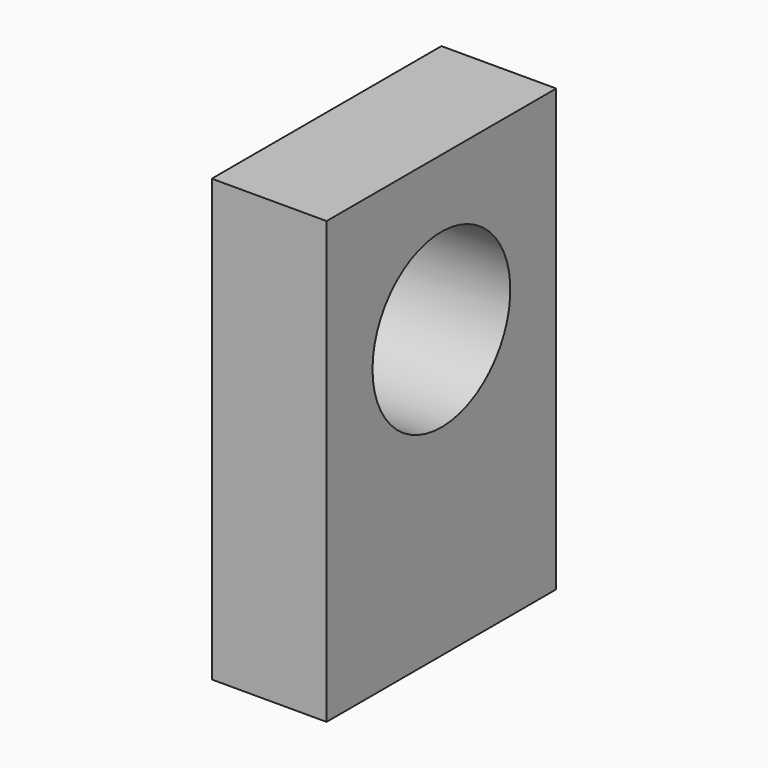
from build123d import *

# Parameters (mm, degrees)
F1_DEPTH = 20
F3_D     = 5
F3_DEPTH = 10
F3_TIP   = 1.5021515476


with BuildPart() as f1:
    # F0 (on Right) → F1 (new body)
    with BuildSketch(Plane.YZ):
        with BuildLine():
            Line((13.9282383025, 62.660025619), (13.9282383025, 12.660025619))
            Line((13.9282383025, 12.660025619), (63.9282383025, 12.660025619))
            Line((63.9282383025, 12.660025619), (63.9282383025, 62.660025619))
            Line((63.9282383025, 62.660025619), (53.9282383025, 62.660025619))
            ThreePointArc((53.9282383025, 62.660025619), (38.9282383025, 47.660025619), (23.9282383025, 62.660025619))
            Line((23.9282383025, 62.660025619), (13.9282383025, 62.660025619))
        make_face()
        with BuildLine():
            Line((13.9282383025, 89.4562825561), (13.9282383025, 62.660025619))
            Line((13.9282383025, 62.660025619), (23.9282383025, 62.660025619))
            ThreePointArc((23.9282383025, 62.660025619), (38.9282383025, 77.660025619), (53.9282383025, 62.660025619))
            Line((53.9282383025, 62.660025619), (63.9282383025, 62.660025619))
            Line((63.9282383025, 62.660025619), (63.9282383025, 89.4562825561))
            Line((63.9282383025, 89.4562825561), (13.9282383025, 89.4562825561))
        make_face()
    extrude(amount=F1_DEPTH)

    # F3
    with Locations(Plane(origin=(0, 0, 12.660025619), x_dir=(1, 0, 0), z_dir=(0, 0, -1))):
        with Locations((10, -51.4282383025), (10, -26.4282383025)):
            Hole(F3_D / 2, depth=F3_DEPTH)
            with Locations((0, 0, -(F3_DEPTH + F3_TIP / 2))):  # 118° drill point
                Cone(0, F3_D / 2, F3_TIP, mode=Mode.SUBTRACT)


solid = f1.part
